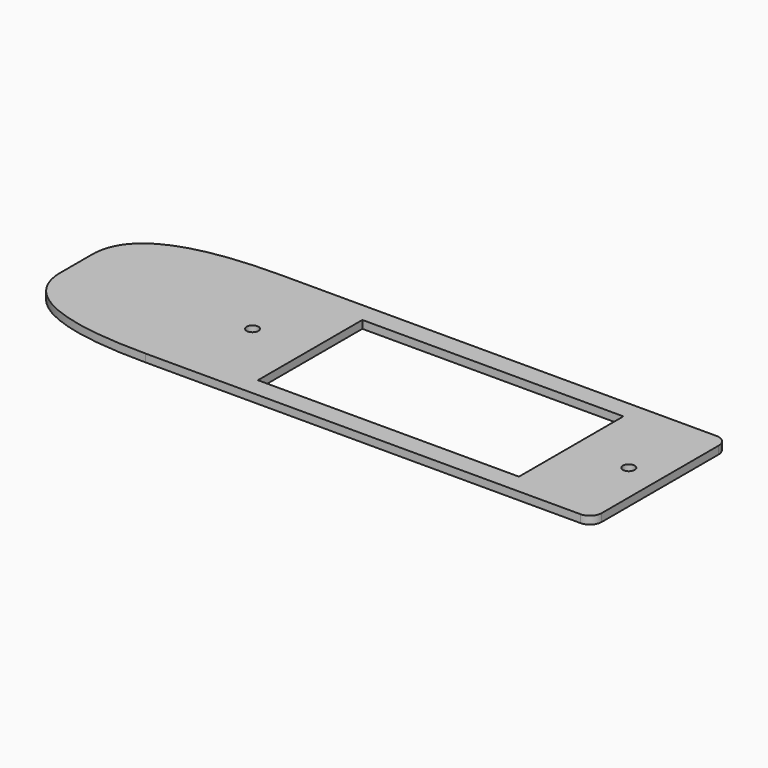
from build123d import *

# Parameters (mm, degrees)
SKETCH_W     = 66.6
SKETCH_H     = 33.3
SKETCH_R     = 1.5
PAD001_DEPTH = 2
FILLET001_R  = 3
FILLET002_R  = 3


with BuildPart() as part:
    # Sketch → Pad001 (new body)
    with BuildSketch(Plane.XY):
        with BuildLine():
            Line((-58, 21.65), (56, 21.65))
            Line((56, 21.65), (56, -21.65))
            Line((56, -21.65), (-58, -21.65))
            add(Edge.make_bspline(
                [(-58, -21.65), (-93, -21.65), (-93, -5)],
                knots=[0, 0, 0, 1, 1, 1], degree=2))
            Line((-93, -5), (-93, 5))
            add(Edge.make_bspline(
                [(-58, 21.65), (-93, 21.65), (-93, 5)],
                knots=[0, 0, 0, 1, 1, 1], degree=2))
        make_face()
        Rectangle(SKETCH_W, SKETCH_H, mode=Mode.SUBTRACT)
        with Locations((-48, 0)):
            Circle(SKETCH_R, mode=Mode.SUBTRACT)
        with Locations((48, 0)):
            Circle(SKETCH_R, mode=Mode.SUBTRACT)
    extrude(amount=PAD001_DEPTH)

    # Fillet001
    fillet001_edges = [part.edges().sort_by_distance(p)[0] for p in [
        (56, -21.65, 1),
    ]]
    fillet(fillet001_edges, radius=FILLET001_R)

    # Fillet002
    fillet002_edges = [part.edges().sort_by_distance(p)[0] for p in [
        (56, 21.65, 1),
    ]]
    fillet(fillet002_edges, radius=FILLET002_R)


solid = part.part
